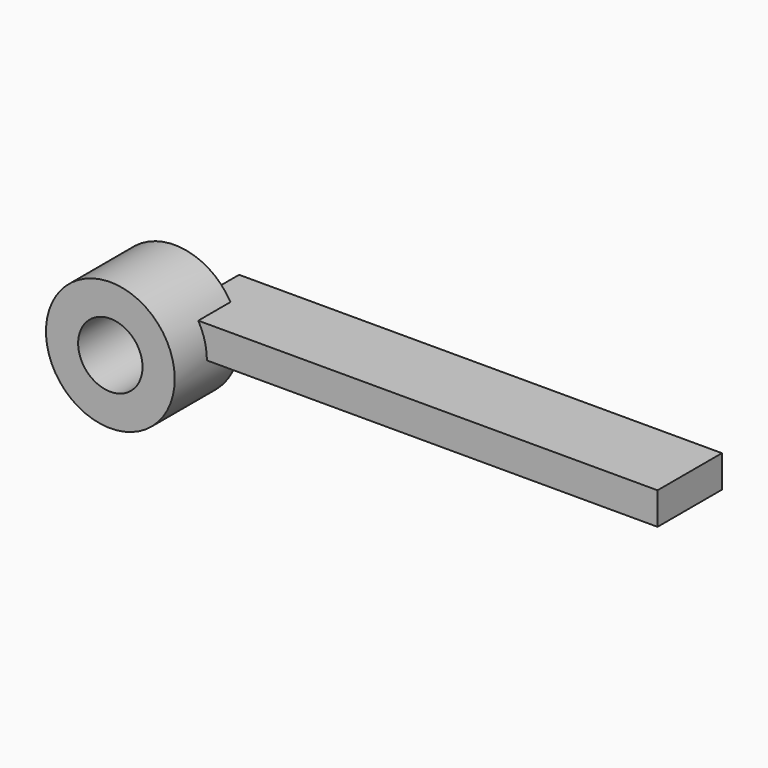
from build123d import *

# Parameters (mm, degrees)
F1_R     = 4
F1_R_2   = 2
F2_DEPTH = 5
F0_W     = 30
F0_H     = 5
F3_DEPTH = 2


with BuildPart() as f2:
    # F1 (on Front) → F2 (new body)
    with BuildSketch(Plane.XZ):
        with Locations((-4, 0)):
            Circle(F1_R)
        with Locations((-4, 0)):
            Circle(F1_R_2, mode=Mode.SUBTRACT)
    extrude(amount=F2_DEPTH)

    # F0 (on Top) → F3 (join)
    with BuildSketch(Plane.XY):
        with Locations((13, 0)):
            Rectangle(F0_W, F0_H)
    extrude(amount=F3_DEPTH)


solid = f2.part
